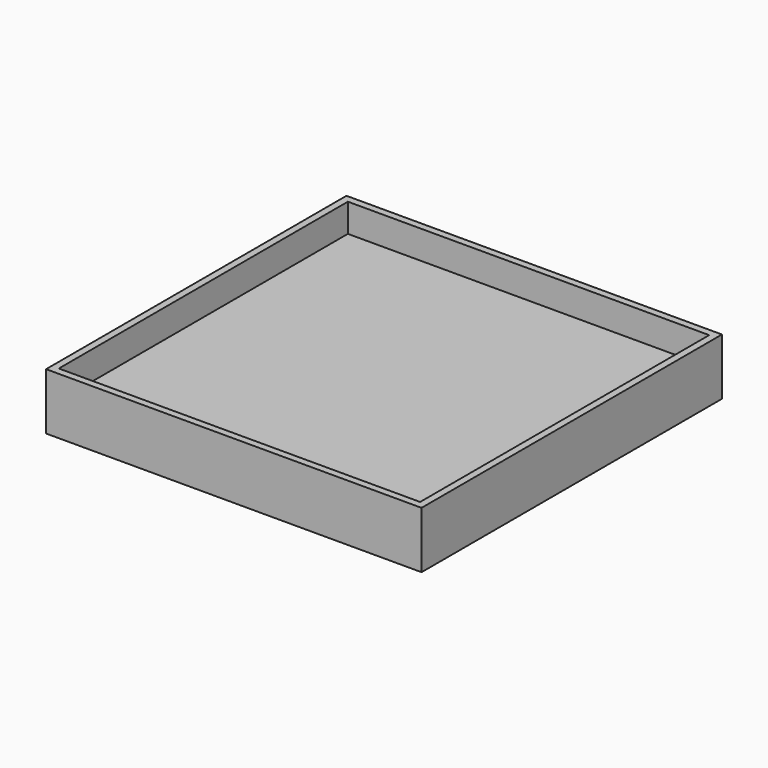
from build123d import *

# Parameters (mm, degrees)
F0_W     = 51
F0_H     = 51
F1_DEPTH = 4
F0_W_2   = 1
F0_H_2   = 1
F2_DEPTH = 8


with BuildPart() as f1:
    # F0 (on Top) → F1 (new body)
    with BuildSketch(Plane.XY):
        with Locations((26.5, 26.5)):
            Rectangle(F0_W, F0_H)
    extrude(amount=F1_DEPTH)

    # F0 (on Top) → F2 (join)
    with BuildSketch(Plane.XY):
        with Locations((0.5, 26.5)):
            Rectangle(F0_W_2, F0_H)
        with Locations((0.5, 52.5)):
            Rectangle(F0_W_2, F0_H_2)
        with Locations((26.5, 52.5)):
            Rectangle(F0_W, F0_H_2)
        with Locations((52.5, 52.5)):
            Rectangle(F0_W_2, F0_H_2)
        with Locations((52.5, 26.5)):
            Rectangle(F0_W_2, F0_H)
        with Locations((52.5, 0.5)):
            Rectangle(F0_W_2, F0_H_2)
        with Locations((26.5, 0.5)):
            Rectangle(F0_W, F0_H_2)
        with Locations((0.5, 0.5)):
            Rectangle(F0_W_2, F0_H_2)
    extrude(amount=F2_DEPTH)


solid = f1.part
